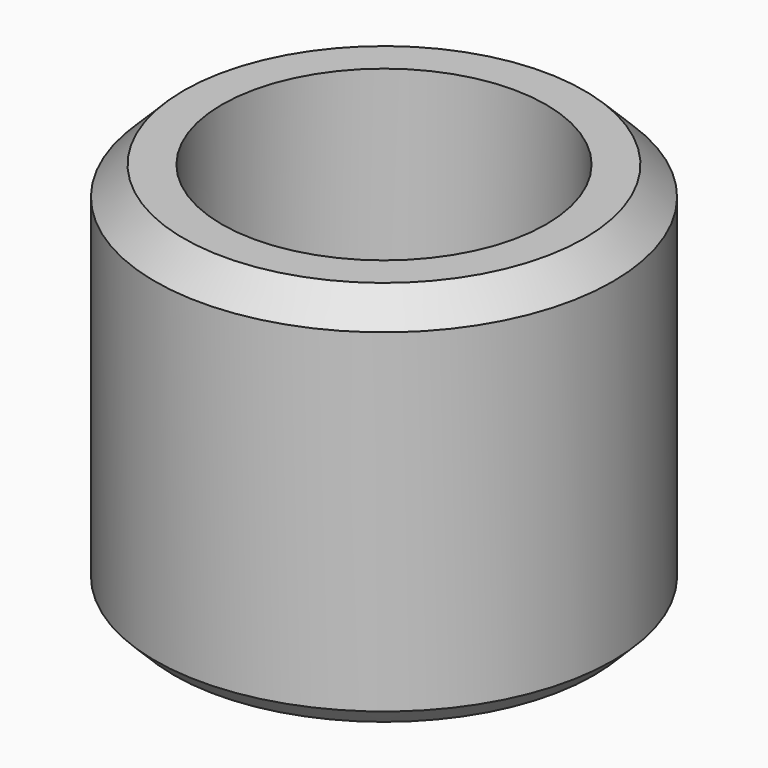
from build123d import *

# Parameters (mm, degrees)
F0_R     = 3.4
F1_DEPTH = 0.6
F0_R_2   = 4.8
F2_DEPTH = 8
F3_SIZE  = 0.4
F4_SIZE  = 0.6


with BuildPart() as f1:
    # F0 (on Top) → F1 (new body)
    with BuildSketch(Plane.XY):
        Circle(F0_R)
    extrude(amount=F1_DEPTH)

    # F0 (on Top) → F2 (join)
    with BuildSketch(Plane.XY):
        Circle(F0_R_2)
        Circle(F0_R, mode=Mode.SUBTRACT)
    extrude(amount=F2_DEPTH)

    # F3
    f3_edges = [f1.edges().sort_by_distance(p)[0] for p in [
        (-4.8, 0, 0),
    ]]
    chamfer(f3_edges, length=F3_SIZE)

    # F4
    f4_edges = [f1.edges().sort_by_distance(p)[0] for p in [
        (-4.8, 0, 8),
    ]]
    chamfer(f4_edges, length=F4_SIZE)


solid = f1.part
